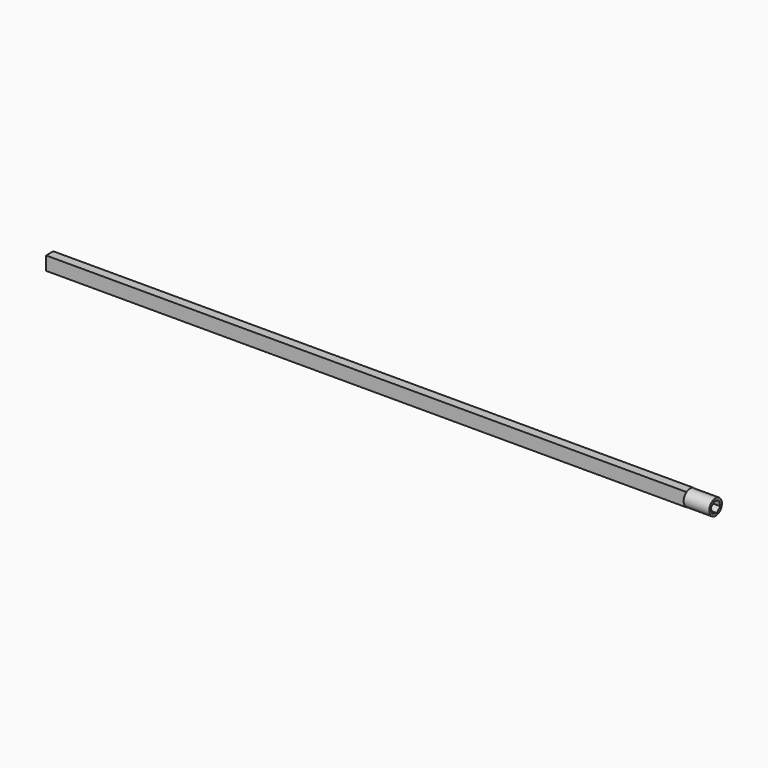
from build123d import *

# Parameters (mm, degrees)
F0_W     = 425
F0_H     = 6
F1_DEPTH = 9
F2_R     = 5.25
F3_DEPTH = 17
F5_DEPTH = 15


with BuildPart() as f1:
    # F0 (on Top) → F1 (new body)
    with BuildSketch(Plane.XY):
        with Locations((183.231094, 0)):
            Rectangle(F0_W, F0_H)
    extrude(amount=F1_DEPTH)

    # F2 (on face) → F3 (join)
    with BuildSketch(Plane.YZ.offset(395.731094)):
        with Locations((0, 4.5)):
            Circle(F2_R)
    extrude(amount=F3_DEPTH)

    # F4 (on face) → F5 (cut)
    with BuildSketch(Plane.YZ.offset(412.731094)):
        Polygon((0.954272, 0.572826), (3.878169, 3.362837), (2.923896, 7.290011), (-0.954272, 8.427174), (-3.878169, 5.637163), (-2.923896, 1.709989), align=None)
    extrude(amount=-F5_DEPTH, mode=Mode.SUBTRACT)


solid = f1.part
